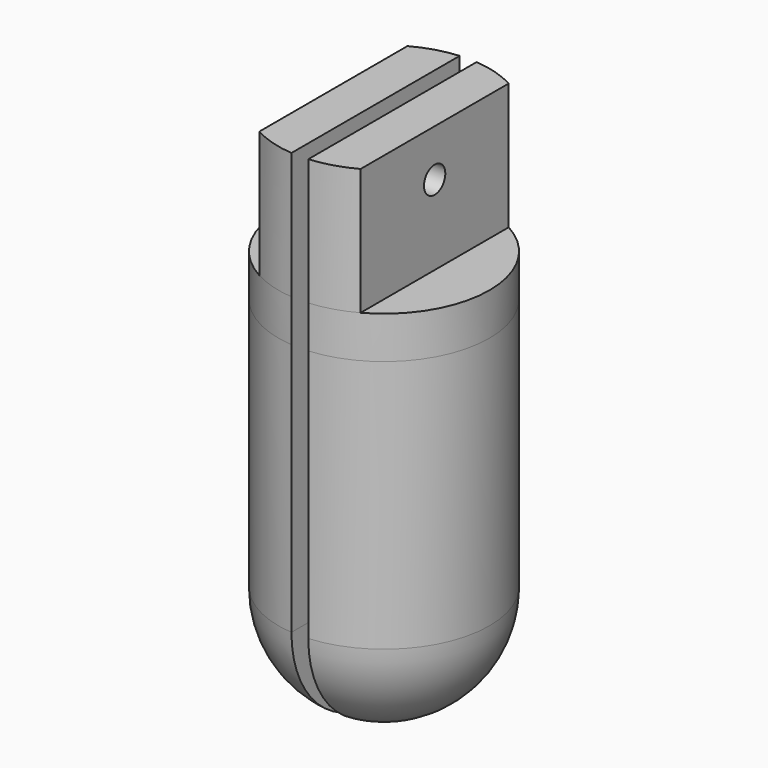
from build123d import *

# Parameters (mm, degrees)
F0_R      = 15.875
F1_DEPTH  = 38.1
F4_T      = -5.08
F6_DEPTH  = 25.4
F7_R      = 10.795
F8_DEPTH  = 40.64
F10_DEPTH = 25.4
F12_DEPTH = 19.05
F14_DEPTH = 6.35
F16_DEPTH = 19.05
F17_R     = 2.0066
F18_DEPTH = 12.7


with BuildPart() as f1:
    # F0 (on Top) → F1 (new body)
    with BuildSketch(Plane.XY):
        Circle(F0_R)
    extrude(amount=F1_DEPTH)


with BuildPart() as f3:
    # F2 (on Front) → F3 (revolve)
    with BuildSketch(Plane.XZ):
        with BuildLine():
            Line((0, 0), (0, -15.875))
            ThreePointArc((0, -15.875), (11.2253201513, -11.2253201513), (15.875, 0))
            Line((15.875, 0), (0, 0))
        make_face()
    revolve(axis=Axis((0, 0, 8.2880207126), (0, 0, 1)))

    # F4
    f4_openings = [f3.faces().sort_by_distance(p)[0] for p in [
        (0, 0, 0),
    ]]
    offset(amount=F4_T, openings=f4_openings)

    # F5 (on Top) → F6 (cut)
    with BuildSketch(Plane.XY):
        with BuildLine():
            Line((0, -3.175), (0, 3.175))
            ThreePointArc((0, 3.175), (-3.175, 0), (0, -3.175))
        make_face()
    extrude(amount=-F6_DEPTH, mode=Mode.SUBTRACT)


with BuildPart() as f8_tool:
    # F7 (on face) → F8 (new body)
    with BuildSketch(Plane.XY.offset(38.1)):
        Circle(F7_R)
    extrude(amount=-F8_DEPTH)


with BuildPart() as f1_1:
    add(f1.part)

    # F8: cut by f8_tool
    add(f8_tool.part, mode=Mode.SUBTRACT)


with BuildPart() as f3_1:
    add(f3.part)

    # F8: cut by f8_tool
    add(f8_tool.part, mode=Mode.SUBTRACT)

    # F9 (on Top) → F10 (cut)
    with BuildSketch(Plane.XY):
        Polygon((0, 3.175), (0, 0), (0, -3.175), (3.175, 0), align=None)
    extrude(amount=-F10_DEPTH, mode=Mode.SUBTRACT)


with BuildPart() as f12_tool:
    # F11 (on Front) → F12 (new body, symmetric)
    with BuildSketch(Plane.XZ):
        Polygon((-1.27, 38.5606661439), (-1.27, 37.9755608737), (-1.27, -17.0012097806), (1.27, -17.0012097806), (1.27, 37.9755608737), (1.27, 38.5606661439), align=None)
    extrude(amount=F12_DEPTH, both=True)


with BuildPart() as f1_2:
    add(f1_1.part)

    # F12: cut by f12_tool
    add(f12_tool.part, mode=Mode.SUBTRACT)

    # F13 (on face) → F14 (join)
    with BuildSketch(Plane.XY.offset(38.1)):
        with BuildLine():
            Line((-1.27, -15.8241184589), (-1.27, 15.8241184589))
            ThreePointArc((-1.27, 15.8241184589), (-15.875, 0), (-1.27, -15.8241184589))
        make_face()
        with BuildLine():
            ThreePointArc((1.27, -15.8241184589), (15.875, 0), (1.27, 15.8241184589))
            Line((1.27, 15.8241184589), (1.27, -15.8241184589))
        make_face()
    extrude(amount=F14_DEPTH)

    # F15 (on face) → F16 (join)
    with BuildSketch(Plane.XY.offset(44.45)):
        with BuildLine():
            Line((-1.27, -15.8241184589), (-1.27, 15.8241184589))
            ThreePointArc((-1.27, 15.8241184589), (-4.5451219717, 15.2104402061), (-7.62, 13.9266372467))
            Line((-7.62, 13.9266372467), (-7.62, -13.9266372467))
            ThreePointArc((-7.62, -13.9266372467), (-4.5451219717, -15.2104402061), (-1.27, -15.8241184589))
        make_face()
        with BuildLine():
            ThreePointArc((7.62, 13.9266372467), (4.5451219717, 15.2104402061), (1.27, 15.8241184589))
            Line((1.27, 15.8241184589), (1.27, -15.8241184589))
            ThreePointArc((1.27, -15.8241184589), (4.5451219717, -15.2104402061), (7.62, -13.9266372467))
            Line((7.62, -13.9266372467), (7.62, 13.9266372467))
        make_face()
    extrude(amount=F16_DEPTH)

    # F17 (on Right) → F18 (cut, symmetric)
    with BuildSketch(Plane.YZ):
        with Locations((0, 56.4134)):
            Circle(F17_R)
    extrude(amount=F18_DEPTH, both=True, mode=Mode.SUBTRACT)


with BuildPart() as f3_2:
    add(f3_1.part)

    # F12: cut by f12_tool
    add(f12_tool.part, mode=Mode.SUBTRACT)


solid = Compound([f1_2.part, f3_2.part])
